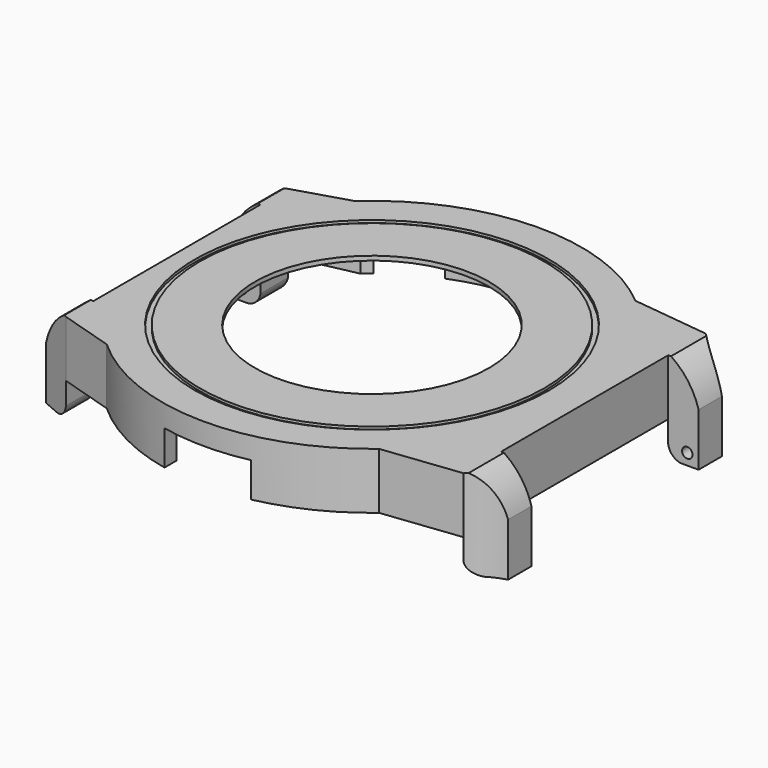
from build123d import *

# Parameters (mm, degrees)
PAD_DEPTH            = 6.5
POCKET_DEPTH         = 6
SKETCH002_R          = 13.5
POCKET001_DEPTH      = 1
SKETCH003_W          = 5.4
SKETCH003_H          = 6.5
PAD001_DEPTH         = 3.5
POCKET002_DEPTH      = 10
SKETCH010_W          = 3.95
SKETCH010_H          = 6.5
PAD002_DEPTH         = 3.5
POCKET005_DEPTH      = 10
SKETCH014_R          = 20.45
SKETCH014_R_2        = 19.85
POCKET008_DEPTH      = 0.3
SKETCH015_R          = 2.2
SKETCH015_R_2        = 1.025
PAD003_DEPTH         = 2
POCKET009_DEPTH      = 4
POCKET010_DEPTH      = 4
PAD004_DEPTH         = 4
POCKET013_DEPTH      = 12.151
POCKET013_DEPTH_BACK = 36.251
SKETCH022_R          = 0.6
POCKET014_DEPTH      = 2
SKETCH023_R          = 0.6
POCKET015_DEPTH      = 2


with BuildPart() as part:
    # Sketch → Pad (new body)
    with BuildSketch(Plane.XY):
        with BuildLine():
            Line((-22.5019915649, 16), (-22.5019915649, -16))
            Line((-22.5019915649, -16), (-16.2858834578, -17.9))
            ThreePointArc((-16.2858834578, -17.9), (-0.4552796053, -24.1957169863), (15.6009615088, -18.5))
            Line((15.6009615088, -18.5), (24.5395016581, -17.45))
            Line((24.5395016581, 17.45), (24.5395016581, -17.45))
            Line((15.6009615088, 18.5), (24.5395016581, 17.45))
            ThreePointArc((15.6009615088, 18.5), (-0.4552796053, 24.1957169863), (-16.2858834578, 17.9))
            Line((-22.5019915649, 16), (-16.2858834578, 17.9))
        make_face()
    extrude(amount=PAD_DEPTH)

    # Sketch001 → Pocket (cut)
    with BuildSketch(Plane.XY):
        with BuildLine():
            Line((-14.8539557021, 16.9), (-21.2122180433, 15.55))
            Line((-21.2122180433, 15.55), (-21.2122180433, -15.55))
            Line((-21.2122180433, -15.55), (-14.8539557021, -16.9))
            ThreePointArc((-14.8539557021, -16.9), (-0.0760301383, -22.4998715423), (14.739402973, -17))
            Line((14.739402973, -17), (23.6191552218, -16.4))
            Line((23.6191552218, 16.4), (23.6191552218, -16.4))
            Line((14.739402973, 17), (23.6191552218, 16.4))
            ThreePointArc((14.739402973, 17), (-0.0760301383, 22.4998715423), (-14.8539557021, 16.9))
        make_face()
    extrude(amount=POCKET_DEPTH, mode=Mode.SUBTRACT)

    # Sketch002 (on Face19 of Pocket) → Pocket001 (cut)
    with BuildSketch(Plane(origin=(0, 0, 6), x_dir=(1, 0, 0), z_dir=(0, 0, -1))):
        Circle(SKETCH002_R)
    extrude(amount=-POCKET001_DEPTH, mode=Mode.SUBTRACT)

    # Sketch003 (on Face7 of Pad) → Pad001 (join)
    with BuildSketch(Plane.YZ.offset(24.5395016581)):
        with Locations((-14.75, 3.25)):
            Rectangle(SKETCH003_W, SKETCH003_H)
        with Locations((14.75, 3.25)):
            Rectangle(SKETCH003_W, SKETCH003_H)
    extrude(amount=PAD001_DEPTH)

    # Sketch006 (on Face22 of Pad001) → Pocket002 (cut)
    with BuildSketch(Plane.XY.offset(6.5)):
        with BuildLine():
            ThreePointArc((24.5395016581, 17.45), (26.1592830786, 16.2095505764), (28.0395016581, 15.4176006311))
            Line((28.0395016581, 17.45), (28.0395016581, 15.4176006311))
            Line((28.0395016581, 17.45), (24.5395016581, 17.45))
        make_face()
        with BuildLine():
            ThreePointArc((28.0395016581, -15.4176006311), (26.1592830786, -16.2095505765), (24.5395016581, -17.4500000001))
            Line((28.0395016581, -17.45), (24.5395016581, -17.45))
            Line((28.0395016581, -15.4176006311), (28.0395016581, -17.45))
        make_face()
    extrude(amount=-POCKET002_DEPTH, mode=Mode.SUBTRACT)

    # Sketch010 (on Face3 of Pad) → Pad002 (join)
    with BuildSketch(Plane(origin=(-22.5019915649, 0, 0), x_dir=(0, -1, 0), z_dir=(-1, 0, 0))):
        with Locations((-14.025, 3.25)):
            Rectangle(SKETCH010_W, SKETCH010_H)
        with Locations((14.025, 3.25)):
            Rectangle(SKETCH010_W, SKETCH010_H)
    extrude(amount=PAD002_DEPTH)

    # Sketch011 (on Face28 of Pad002) → Pocket005 (cut)
    with BuildSketch(Plane.XY.offset(6.5)):
        Polygon((-26.0019915649, 16), (-22.5019915649, 16), (-26.0019915649, 14.5), align=None)
        Polygon((-22.5019915649, -16), (-26.0019915649, -14.5), (-26.0019915649, -16), align=None)
    extrude(amount=-POCKET005_DEPTH, mode=Mode.SUBTRACT)

    # Sketch014 (on Face10 of Pad) → Pocket008 (cut)
    with BuildSketch(Plane.XY.offset(6.5)):
        Circle(SKETCH014_R)
        Circle(SKETCH014_R_2, mode=Mode.SUBTRACT)
    extrude(amount=-POCKET008_DEPTH, mode=Mode.SUBTRACT)

    # Sketch015 (on Face19 of Pocket) → Pad003 (join)
    with BuildSketch(Plane(origin=(0, 0, 6), x_dir=(1, 0, 0), z_dir=(0, 0, -1))):
        with Locations((-18.42, 13.32)):
            Circle(SKETCH015_R)
        with Locations((-18.42, 13.32)):
            Circle(SKETCH015_R_2, mode=Mode.SUBTRACT)
        with Locations((7.27, 18.56)):
            Circle(SKETCH015_R)
        with Locations((7.27, 18.56)):
            Circle(SKETCH015_R_2, mode=Mode.SUBTRACT)
        with Locations((5.37, -19.79)):
            Circle(SKETCH015_R)
        with Locations((5.37, -19.79)):
            Circle(SKETCH015_R_2, mode=Mode.SUBTRACT)
        with Locations((-18.42, -13.32)):
            Circle(SKETCH015_R)
        with Locations((-18.42, -13.32)):
            Circle(SKETCH015_R_2, mode=Mode.SUBTRACT)
    extrude(amount=PAD003_DEPTH)

    # Sketch016 (on Face4 of Pocket) → Pocket009 (cut)
    with BuildSketch(Plane(origin=(0, 0, 0), x_dir=(1, 0, 0), z_dir=(0, 0, -1))):
        with BuildLine():
            Line((-4.9992330338, 23.6779996848), (-5.0007669662, 21.9372361465))
            ThreePointArc((5.0007669662, 21.9372361465), (0, 22.5), (-5.0007669662, 21.9372361465))
            Line((5.0007669662, 23.6776757675), (5.0007669662, 21.9372361465))
            ThreePointArc((5.0007669662, 23.6776757675), (0.00078388, 24.1999999873), (-4.9992330338, 23.6779996848))
        make_face()
    extrude(amount=-POCKET009_DEPTH, mode=Mode.SUBTRACT)

    # Sketch017 (on Face4 of Pocket) → Pocket010 (cut)
    with BuildSketch(Plane(origin=(0, 0, 0), x_dir=(1, 0, 0), z_dir=(0, 0, -1))):
        with BuildLine():
            ThreePointArc((-3.2541322314, -22.2634369184), (0, -22.5), (3.2541322314, -22.2634369184))
            Line((3.2541322314, -22.2634369184), (3.5, -23.9455632634))
            ThreePointArc((-3.5, -23.9455632634), (0, -24.2), (3.5, -23.9455632634))
            Line((-3.2541322314, -22.2634369184), (-3.5, -23.9455632634))
        make_face()
        with BuildLine():
            ThreePointArc((-13.9498796389, -17.6536358312), (-11.25, -19.4855715851), (-8.3135572795, -20.9077680626))
            Line((-8.3135572795, -20.9077680626), (-8.9416927184, -22.487466094))
            ThreePointArc((-15.0038705449, -18.987466094), (-12.1, -20.9578147716), (-8.9416927184, -22.487466094))
            Line((-13.9498796389, -17.6536358312), (-15.0038705449, -18.987466094))
        make_face()
        with BuildLine():
            ThreePointArc((8.3135572795, -20.9077680626), (11.25, -19.4855715851), (13.9498796389, -17.6536358312))
            Line((13.9498796389, -17.6536358312), (15.0038705449, -18.987466094))
            ThreePointArc((8.9416927184, -22.487466094), (12.1, -20.9578147716), (15.0038705449, -18.987466094))
            Line((8.3135572795, -20.9077680626), (8.9416927184, -22.487466094))
        make_face()
    extrude(amount=-POCKET010_DEPTH, mode=Mode.SUBTRACT)

    # Sketch018 (on Face8 of Pocket005) → Pad004 (join)
    with BuildSketch(Plane(origin=(0, 0, 0), x_dir=(1, 0, 0), z_dir=(0, 0, -1))):
        Polygon((-26.0019915649, 14.5), (-26.0019915649, 12.05), (-22.5019915649, 12.05), (-22.5019915649, 16), align=None)
        Polygon((-26.0019915649, -12.05), (-22.5019915649, -12.05), (-22.5019915649, -16), (-26.0019915649, -14.5), align=None)
        with BuildLine():
            Line((24.5395016581, 17.4500000001), (24.5395016581, 12.05))
            Line((28.0395016581, 12.05), (24.5395016581, 12.05))
            Line((28.0395016581, 15.4176006311), (28.0395016581, 12.05))
            ThreePointArc((24.5395016581, 17.4500000001), (26.1592830786, 16.2095505765), (28.0395016581, 15.4176006311))
        make_face()
        with BuildLine():
            Line((24.5395016581, -12.05), (24.5395016581, -17.45))
            ThreePointArc((28.0395016581, -15.4176006311), (26.1592830786, -16.2095505764), (24.5395016581, -17.45))
            Line((28.0395016581, -12.05), (28.0395016581, -15.4176006311))
            Line((24.5395016581, -12.05), (28.0395016581, -12.05))
        make_face()
    extrude(amount=PAD004_DEPTH)

    # Sketch021 (on Face50 of Pad004) → Pocket013 (cut, two sides)
    with BuildSketch(Plane(origin=(0, -12.05, 0), x_dir=(-1, 0, 0), z_dir=(0, 1, 0))) as pocket013_sk:
        with BuildLine():
            Line((-24.8620157143, 6.5), (-28.0395016581, 6.5))
            Line((-28.0395016581, 6.5), (-28.0395016581, 2.1))
            ThreePointArc((-24.8620157143, 6.5), (-26.8441838951, 4.5841143344), (-28.0395016581, 2.1))
        make_face()
        with BuildLine():
            ThreePointArc((-25.9995016581, -4), (-25.0260575173, -3.5134441408), (-24.5395016581, -2.54))
            Line((-24.5395016581, -4), (-24.5395016581, -2.54))
            Line((-24.5395016581, -4), (-25.9995016581, -4))
        make_face()
        with BuildLine():
            Line((22.5019915649, -4), (22.5019915649, -2.54))
            ThreePointArc((22.5019915649, -2.54), (22.9885474241, -3.5134441408), (23.9619915649, -4))
            Line((22.5019915649, -4), (23.9619915649, -4))
        make_face()
        with BuildLine():
            Line((26.0019915649, 6.5), (26.0019915649, 2.1))
            ThreePointArc((26.0019915649, 2.1), (24.806673802, 4.5841143344), (22.8245056212, 6.5))
            Line((26.0019915649, 6.5), (22.8245056212, 6.5))
        make_face()
    extrude(amount=-POCKET013_DEPTH, mode=Mode.SUBTRACT)
    extrude(pocket013_sk.sketch, amount=POCKET013_DEPTH_BACK, mode=Mode.SUBTRACT)

    # Sketch022 (on Face66 of Pocket013) → Pocket014 (cut)
    with BuildSketch(Plane.XZ.offset(-12.05)):
        with Locations((-24.7019915649, -2.7)):
            Circle(SKETCH022_R)
        with Locations((26.7395016581, -2.7)):
            Circle(SKETCH022_R)
    extrude(amount=-POCKET014_DEPTH, mode=Mode.SUBTRACT)

    # Sketch023 (on Face49 of Pocket014) → Pocket015 (cut)
    with BuildSketch(Plane(origin=(0, -12.05, 0), x_dir=(-1, 0, 0), z_dir=(0, 1, 0))):
        with Locations((-26.7395016581, -2.7)):
            Circle(SKETCH023_R)
        with Locations((24.7019915649, -2.7)):
            Circle(SKETCH023_R)
    extrude(amount=-POCKET015_DEPTH, mode=Mode.SUBTRACT)


solid = part.part
